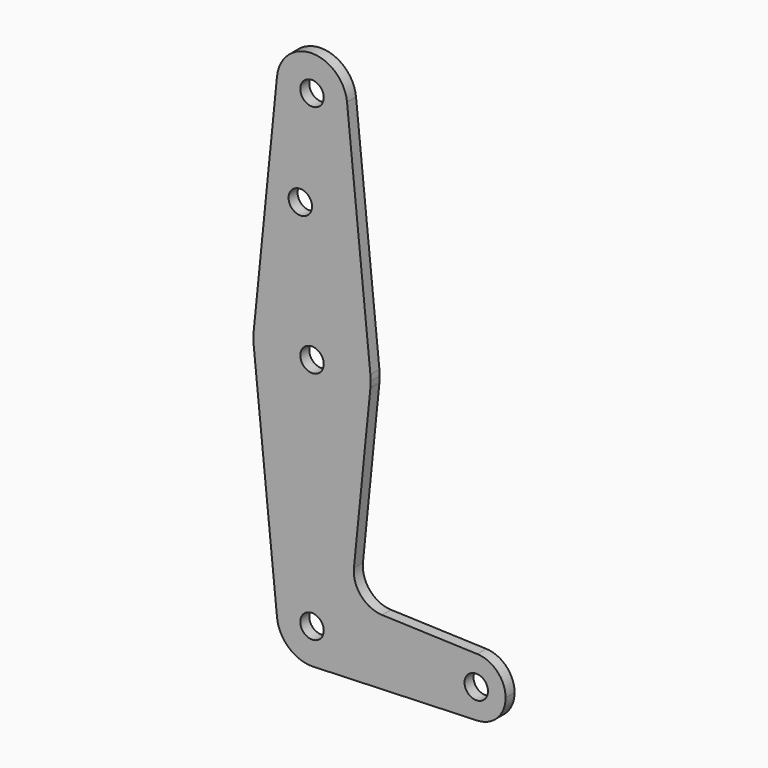
from build123d import *

# Parameters (mm, degrees)
F0_R     = 3.175
F1_DEPTH = 3.048


with BuildPart() as f1:
    # F0 (on Front) → F1 (new body)
    with BuildSketch(Plane.XZ):
        with BuildLine():
            ThreePointArc((0.340179, -9.518923), (6.854408, -6.613827), (9.525, 0))
            ThreePointArc((9.525, 0), (-0.476848, 9.513056), (-9.477255, -0.9525))
            ThreePointArc((-9.477255, -0.9525), (-6.262383, -7.17692), (0.340179, -9.518923))
        make_face()
        Circle(F0_R, mode=Mode.SUBTRACT)
        with BuildLine():
            ThreePointArc((-9.477255, -0.9525), (-0.476848, 9.513056), (9.525, 0))
            ThreePointArc((9.525, 0), (6.854408, -6.613827), (0.340179, -9.518923))
            Line((0.340179, -9.518923), (44.733482, -7.932436))
            ThreePointArc((44.733482, -7.932436), (36.5125, 0), (44.733482, 7.932436))
            Line((44.733482, 7.932436), (18.9676, 8.853234))
            ThreePointArc((18.9676, 8.853234), (13.2612, 11.571359), (11.341187, 17.593382))
            Line((11.341187, 17.593382), (15.795426, 61.9125))
            ThreePointArc((15.795426, 61.9125), (0, 47.625), (-15.795426, 61.9125))
            Line((-15.795426, 61.9125), (-9.477255, -0.9525))
        make_face()
        with BuildLine():
            ThreePointArc((-15.795426, 65.0875), (-15.875, 63.5), (-15.795426, 61.9125))
            ThreePointArc((-15.795426, 61.9125), (0, 47.625), (15.795426, 61.9125))
            ThreePointArc((15.795426, 61.9125), (15.855094, 62.705253), (15.875, 63.5))
            ThreePointArc((15.875, 63.5), (15.855094, 64.294747), (15.795426, 65.0875))
            ThreePointArc((15.795426, 65.0875), (0, 79.375), (-15.795426, 65.0875))
        make_face()
        with Locations((0, 63.5)):
            Circle(F0_R, mode=Mode.SUBTRACT)
        with BuildLine():
            ThreePointArc((44.733482, 7.932436), (36.5125, 0), (44.733482, -7.932436))
            ThreePointArc((44.733482, -7.932436), (50.162007, -5.511523), (52.3875, 0))
            ThreePointArc((52.3875, 0), (50.162007, 5.511523), (44.733482, 7.932436))
        make_face()
        with Locations((44.45, 0)):
            Circle(F0_R, mode=Mode.SUBTRACT)
        with BuildLine():
            Line((-9.477255, 127.9525), (-15.795426, 65.0875))
            ThreePointArc((-15.795426, 65.0875), (0, 79.375), (15.795426, 65.0875))
            Line((15.795426, 65.0875), (9.477255, 127.9525))
            ThreePointArc((9.477255, 127.9525), (9.513056, 127.476848), (9.525, 127))
            ThreePointArc((9.525, 127), (-0.476848, 117.486944), (-9.477255, 127.9525))
        make_face()
        with Locations((-3.175, 100.0252)):
            Circle(F0_R, mode=Mode.SUBTRACT)
        with BuildLine():
            ThreePointArc((9.477255, 127.9525), (0, 136.525), (-9.477255, 127.9525))
            ThreePointArc((-9.477255, 127.9525), (-0.476848, 117.486944), (9.525, 127))
            ThreePointArc((9.525, 127), (9.513056, 127.476848), (9.477255, 127.9525))
        make_face()
        with Locations((0, 127)):
            Circle(F0_R, mode=Mode.SUBTRACT)
    extrude(amount=F1_DEPTH)


solid = f1.part
